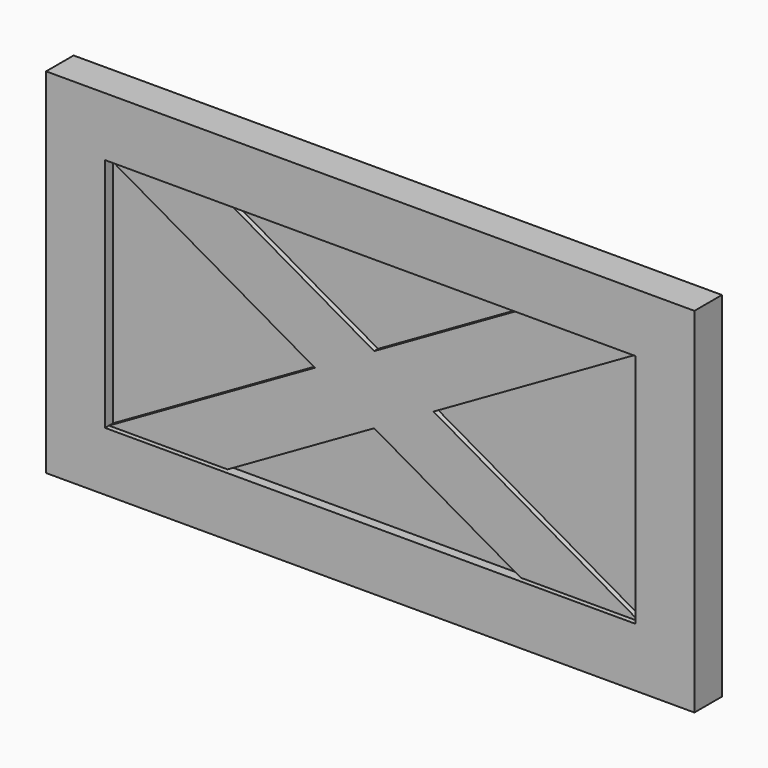
from build123d import *

# Parameters (mm, degrees)
F0_W     = 838.2
F0_H     = 457.2
F0_W_2   = 685.8
F0_H_2   = 304.8
F1_DEPTH = 22.225
F2_DEPTH = 9.525
F4_DEPTH = 6.35
F6_DEPTH = 6.35


with BuildPart() as f1:
    # F0 (on Front) → F1 (new body, symmetric)
    with BuildSketch(Plane.XZ):
        Rectangle(F0_W, F0_H)
        Rectangle(F0_W_2, F0_H_2, mode=Mode.SUBTRACT)
    extrude(amount=F1_DEPTH, both=True)

    # F0 (on Front) → F2 (join, symmetric)
    with BuildSketch(Plane.XZ):
        Rectangle(F0_W_2, F0_H_2)
    extrude(amount=F2_DEPTH, both=True)

    # F3 (on face) → F4 (join)
    with BuildSketch(Plane.XZ.offset(9.525)):
        Polygon((342.9, -152.4), (-189.5254737066, 152.4), (-342.9, 152.4), (189.5254737066, -152.4), align=None)
    extrude(amount=F4_DEPTH)

    # F5 (on face) → F6 (join)
    with BuildSketch(Plane.XZ.offset(9.525)):
        Polygon((-76.6872631467, 0), (-342.9, -152.4), (-189.5254737066, -152.4), (0, -43.90150164), align=None)
        Polygon((342.9, 152.4), (189.5254737066, 152.4), (0, 43.90150164), (76.6872631467, 0), align=None)
    extrude(amount=F6_DEPTH)


solid = f1.part
